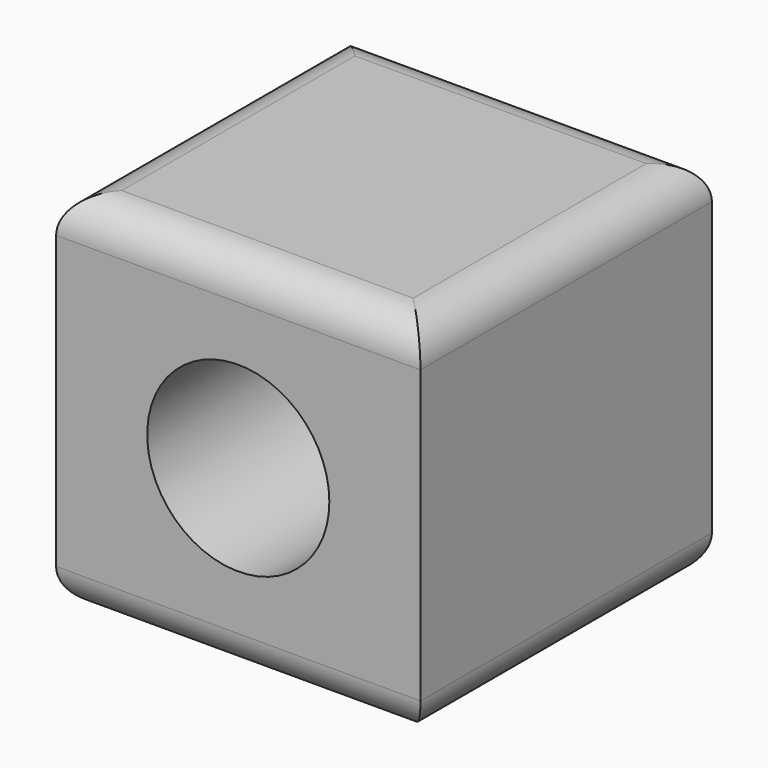
from build123d import *

# Parameters (mm, degrees)
F0_W     = 10
F0_H     = 10
F1_DEPTH = 10
F2_R     = 2.5
F3_DEPTH = 10.1
F4_R     = 1


with BuildPart() as f1:
    # F0 (on Top) → F1 (new body)
    with BuildSketch(Plane.XY):
        Rectangle(F0_W, F0_H)
    extrude(amount=F1_DEPTH)

    # F2 (on face) → F3 (cut)
    with BuildSketch(Plane.XZ.offset(5)):
        with Locations((0, 5)):
            Circle(F2_R)
    extrude(amount=-F3_DEPTH, mode=Mode.SUBTRACT)

    # F4
    f4_edges = [f1.edges().sort_by_distance(p)[0] for p in [
        (5, 0, 10),
        (0, 5, 10),
        (-5, 0, 10),
        (0, -5, 10),
        (5, 0, 0),
        (0, 5, 0),
        (-5, 0, 0),
        (0, -5, 0),
    ]]
    fillet(f4_edges, radius=F4_R)


solid = f1.part
